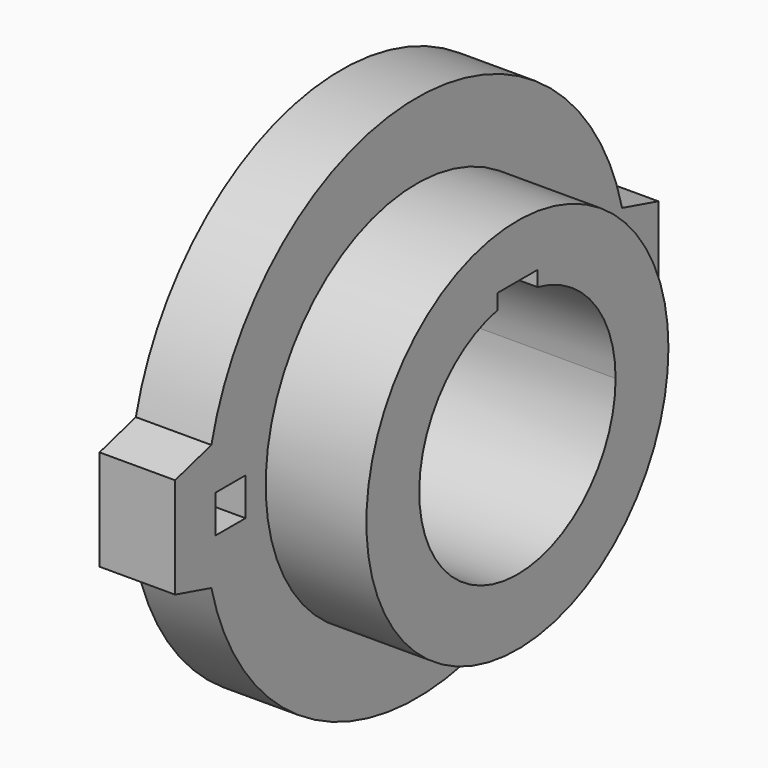
from build123d import *

# Parameters (mm, degrees)
F0_R     = 95.25
F1_DEPTH = 88.9
F2_DEPTH = 38.1


with BuildPart() as f1:
    # F0 (on Right) → F1 (new body)
    with BuildSketch(Plane.YZ):
        Circle(F0_R)
        with BuildLine():
            ThreePointArc((12.7, 60.595938), (48.05958, 39.031198), (61.9125, 0))
            ThreePointArc((61.9125, 0), (-39.031198, -48.05958), (-12.7, 60.595938))
            Line((-12.7, 60.595938), (-12.7, 68.2625))
            Line((-12.7, 68.2625), (12.7, 68.2625))
            Line((12.7, 68.2625), (12.7, 60.595938))
        make_face(mode=Mode.SUBTRACT)
    extrude(amount=F1_DEPTH)

    # F0 (on Right) → F2 (join)
    with BuildSketch(Plane.YZ):
        with BuildLine():
            Line((-152.4, -25.4), (-129.515096, -31.75))
            ThreePointArc((-129.515096, -31.75), (0, -133.35), (129.515096, -31.75))
            Line((129.515096, -31.75), (152.4, -25.4))
            Line((152.4, -25.4), (152.4, 25.4))
            Line((152.4, 25.4), (129.515096, 31.75))
            ThreePointArc((129.515096, 31.75), (0, 133.35), (-129.515096, 31.75))
            Line((-129.515096, 31.75), (-152.4, 25.4))
            Line((-152.4, 25.4), (-152.4, -25.4))
        make_face()
        Polygon((-127, -9.525), (-127, 9.525), (-107.95, 9.525), (-107.95, 0), (-107.95, -9.525), align=None, mode=Mode.SUBTRACT)
        Circle(F0_R, mode=Mode.SUBTRACT)
        Polygon((107.95, 0), (107.95, 9.525), (127, 9.525), (127, -9.525), (107.95, -9.525), align=None, mode=Mode.SUBTRACT)
    extrude(amount=F2_DEPTH)


solid = f1.part
